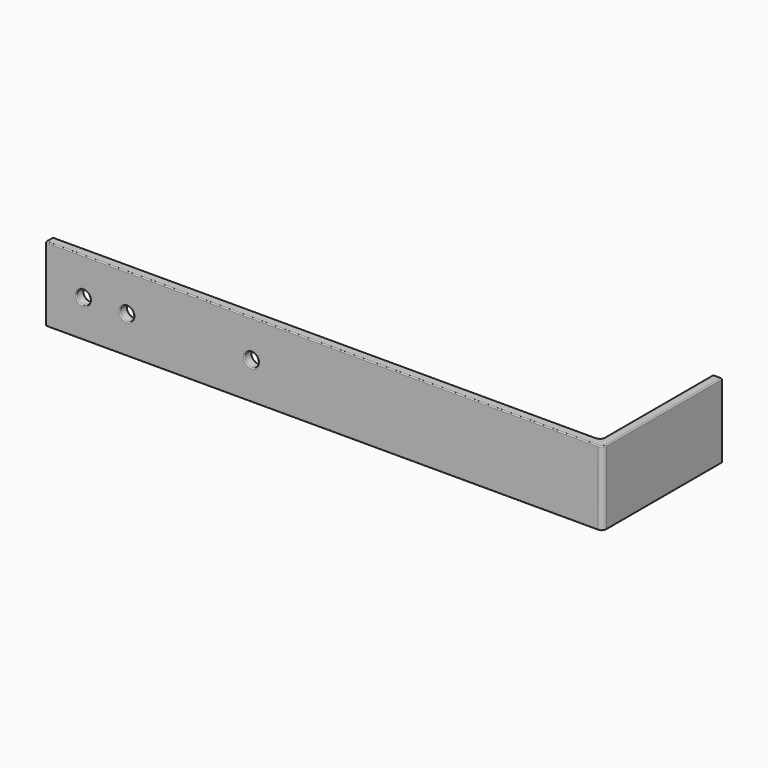
from build123d import *

# Parameters (mm, degrees)
F1_DEPTH = 76.2
F2_R     = 7.15
F3_DEPTH = 9.501
F4_R     = 5
F5_R     = 1
F6_R     = 1


with BuildPart() as f1:
    # F0 (on Top) → F1 (new body)
    with BuildSketch(Plane.XY):
        Polygon((0, 9.5), (0, 0), (569.5, 0), (569.5, 152.5), (560, 152.5), (560, 9.5), align=None)
    extrude(amount=F1_DEPTH)

    # F2 (on face) → F3 (cut, through all)
    with BuildSketch(Plane(origin=(0, 9.5, 0), x_dir=(-1, 0, 0), z_dir=(0, 1, 0))):
        with Locations((-38.1, 38.1)):
            Circle(F2_R)
        with Locations((-82.6, 38.1)):
            Circle(F2_R)
        with Locations((-210, 38.1)):
            Circle(F2_R)
    extrude(amount=-F3_DEPTH, mode=Mode.SUBTRACT)

    # F4
    f4_edges = [f1.edges().sort_by_distance(p)[0] for p in [
        (569.5, 0, 38.1),
        (560, 9.5, 38.1),
    ]]
    fillet(f4_edges, radius=F4_R)

    # F5
    f5_edges = [f1.edges().sort_by_distance(p)[0] for p in [
        (277.5, 9.5, 76.2),
        (277.5, 9.5, 0),
        (282.25, 0, 76.2),
        (282.25, 0, 0),
        (560, 83.5, 0),
        (569.5, 78.75, 0),
        (569.5, 78.75, 76.2),
        (560, 83.5, 76.2),
    ]]
    fillet(f5_edges, radius=F5_R)

    # F6
    f6_edges = [f1.edges().sort_by_distance(p)[0] for p in [
        (217.15, 0, 38.1),
        (89.75, 0, 38.1),
        (45.25, 0, 38.1),
        (217.15, 9.5, 38.1),
        (89.75, 9.5, 38.1),
        (45.25, 9.5, 38.1),
    ]]
    fillet(f6_edges, radius=F6_R)


solid = f1.part
